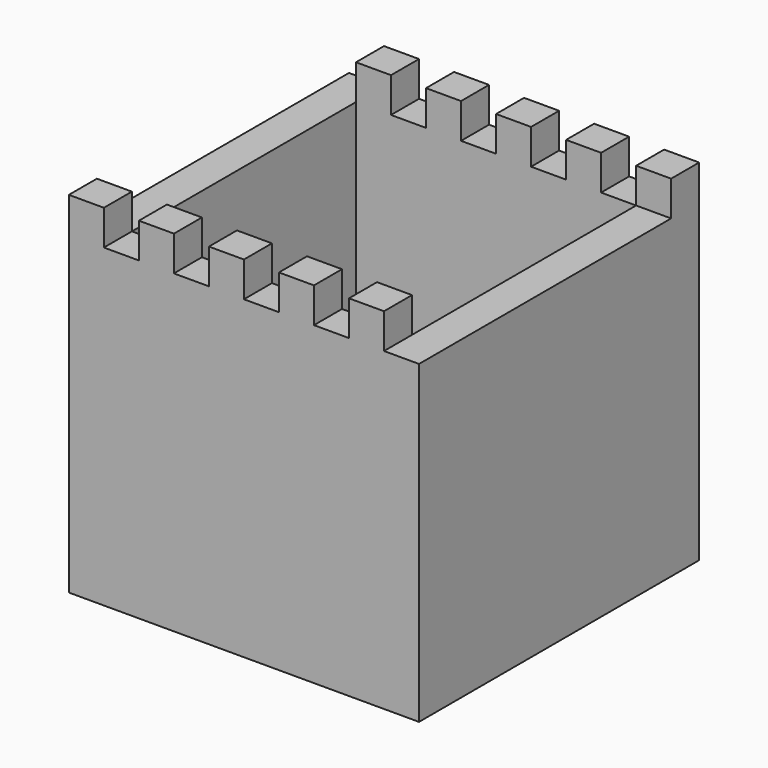
from build123d import *

# Parameters (mm, degrees)
F0_W     = 25.4
F0_H     = 25.4
F1_DEPTH = 25.4
F3_DEPTH = 2.54
F4_W     = 20.32
F4_H     = 20.32
F5_DEPTH = 20.32


with BuildPart() as f1:
    # F0 (on Top) → F1 (new body)
    with BuildSketch(Plane.XY):
        Rectangle(F0_W, F0_H)
    extrude(amount=F1_DEPTH)

    # F2 (on face) → F3 (cut)
    with BuildSketch(Plane.XY.offset(25.4)):
        Polygon((12.7, -10.16), (12.7, 10.16), (10.16, 10.16), (10.16, 12.7), (7.62, 12.7), (7.62, 10.16), (5.08, 10.16), (5.08, 12.7), (2.54, 12.7), (2.54, 10.16), (0, 10.16), (0, 12.7), (-2.54, 12.7), (-2.54, 10.16), (-5.08, 10.16), (-5.08, 12.7), (-7.62, 12.7), (-7.62, 10.16), (-10.16, 10.16), (-10.16, 12.7), (-12.7, 12.7), (-12.7, 10.16), (-12.7, -10.16), (-10.16, -10.16), (-10.16, -12.7), (-7.62, -12.7), (-7.62, -10.16), (-5.08, -10.16), (-5.08, -12.7), (-2.54, -12.7), (-2.54, -10.16), (0, -10.16), (0, -12.7), (2.54, -12.7), (2.54, -10.16), (5.08, -10.16), (5.08, -12.7), (7.62, -12.7), (7.62, -10.16), (10.16, -10.16), (10.16, -12.7), (12.7, -12.7), align=None)
    extrude(amount=-F3_DEPTH, mode=Mode.SUBTRACT)

    # F4 (on face) → F5 (cut)
    with BuildSketch(Plane.XY.offset(22.86)):
        Rectangle(F4_W, F4_H)
    extrude(amount=-F5_DEPTH, mode=Mode.SUBTRACT)


solid = f1.part
